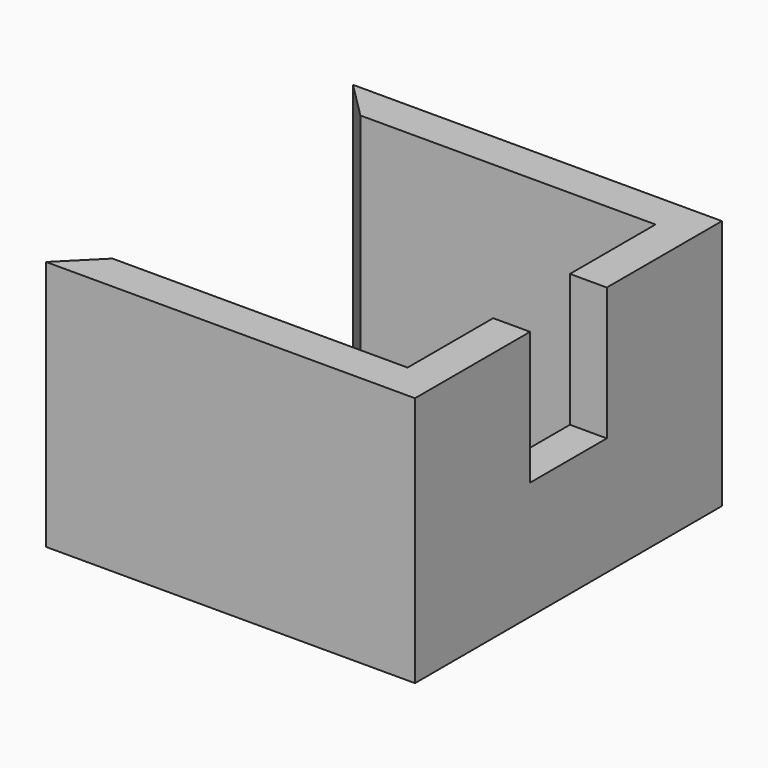
from build123d import *

# Parameters (mm, degrees)
F1_DEPTH = 17
F2_W     = 6.5
F2_H     = 9
F3_DEPTH = 25


with BuildPart() as f1:
    # F0 (on Top) → F1 (new body)
    with BuildSketch(Plane.XY):
        Polygon((-15.092822, 2.267766), (-12.592822, -0.232234), (7.407178, -0.232234), (7.407178, -21.232234), (-12.592822, -21.232234), (-15.092822, -23.732234), (9.907178, -23.732234), (9.907178, 2.267766), align=None)
    extrude(amount=F1_DEPTH)

    # F2 (on face) → F3 (cut)
    with BuildSketch(Plane.YZ.offset(9.907178)):
        with Locations((-10.732234, 12.5)):
            Rectangle(F2_W, F2_H)
    extrude(amount=-F3_DEPTH, mode=Mode.SUBTRACT)


solid = f1.part
